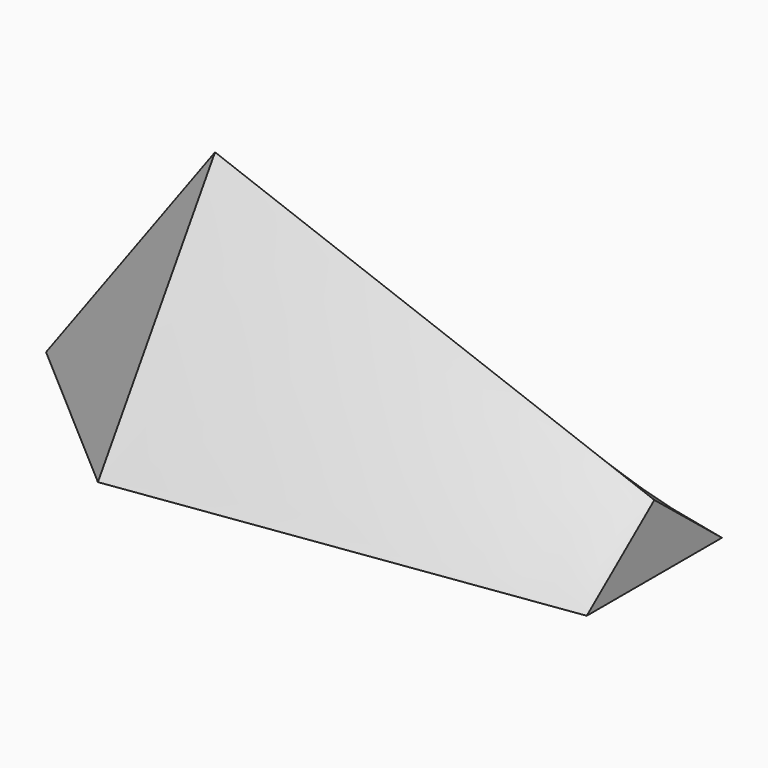
from build123d import *


with BuildPart() as f7:
    # F6 (on face) → F7 section 0
    with BuildSketch(Plane(origin=(1066.8, 0, 0), x_dir=(0, -1, 0), z_dir=(-1, 0, 0))):
        Polygon((0, 304.8), (-381, 0), (381, 0), align=None)
    # F5 (on face) → F7 section 1
    with BuildSketch(Plane(origin=(-914.4, 0, 0), x_dir=(0, -1, 0), z_dir=(-1, 0, 0))):
        Polygon((0, 1041.4), (-660.4, 0), (660.4, 0), align=None)
    loft()

    # F7_face (on face) → F8 section 0
    with BuildSketch(Plane(origin=(-914.4, 0, 347.1333333333), x_dir=(0, -1, 0), z_dir=(-1, 0, 0)), mode=Mode.PRIVATE) as f8_s0:
        Polygon((0, 694.2666666667), (-660.4, -347.1333333333), (660.4, -347.1333333333), align=None)
    loft([f8_s0.sketch, Vertex(-1676.4, 0, 0)])


solid = f7.part
